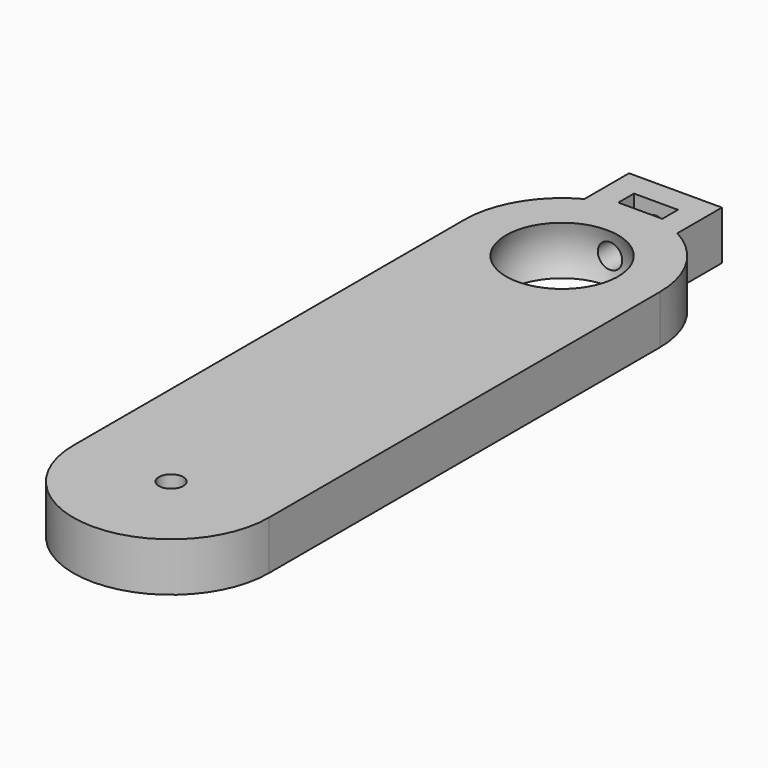
from build123d import *

# Parameters (mm, degrees)
F0_R     = 1.5
F1_DEPTH = 6
F3_W     = 11.4
F3_H     = 9.9
F3_W_2   = 5.4
F3_H_2   = 2.4
F4_DEPTH = 6
F6_R     = 1.5
F7_DEPTH = 11.0515308717


with BuildPart() as f1:
    # F0 (on Top) → F1 (new body)
    with BuildSketch(Plane.XY):
        with BuildLine():
            Line((-12, 60), (-12, 0))
            ThreePointArc((-12, 0), (0, -12), (12, 0))
            Line((12, 0), (12, 60))
            ThreePointArc((12, 60), (0, 72), (-12, 60))
        make_face()
        Circle(F0_R, mode=Mode.SUBTRACT)
    extrude(amount=F1_DEPTH)

    # F3 (on face) → F4 (join, through all)
    with BuildSketch(Plane(origin=(0, 0, 0), x_dir=(1, 0, 0), z_dir=(0, 0, -1))):
        with Locations((0, -72.45)):
            Rectangle(F3_W, F3_H)
        with Locations((0, -73.2)):
            Rectangle(F3_W_2, F3_H_2, mode=Mode.SUBTRACT)
    extrude(amount=-F4_DEPTH)

    # F2 (on Right) → F5 (revolve, cut)
    with BuildSketch(Plane.YZ):
        with BuildLine():
            ThreePointArc((60, -4.5), (67.5, 3), (60, 10.5))
            Line((60, 10.5), (60, -4.5))
        make_face()
    revolve(axis=Axis((0, 60, 3), (0, 0, -1)), mode=Mode.SUBTRACT)

    # F6 (on face) → F7 (cut, up to face)
    with BuildSketch(Plane(origin=(0, 77.4, 0), x_dir=(-1, 0, 0), z_dir=(0, 1, 0))):
        with Locations((0, 3)):
            Circle(F6_R)
    extrude(amount=-F7_DEPTH, mode=Mode.SUBTRACT)


solid = f1.part
